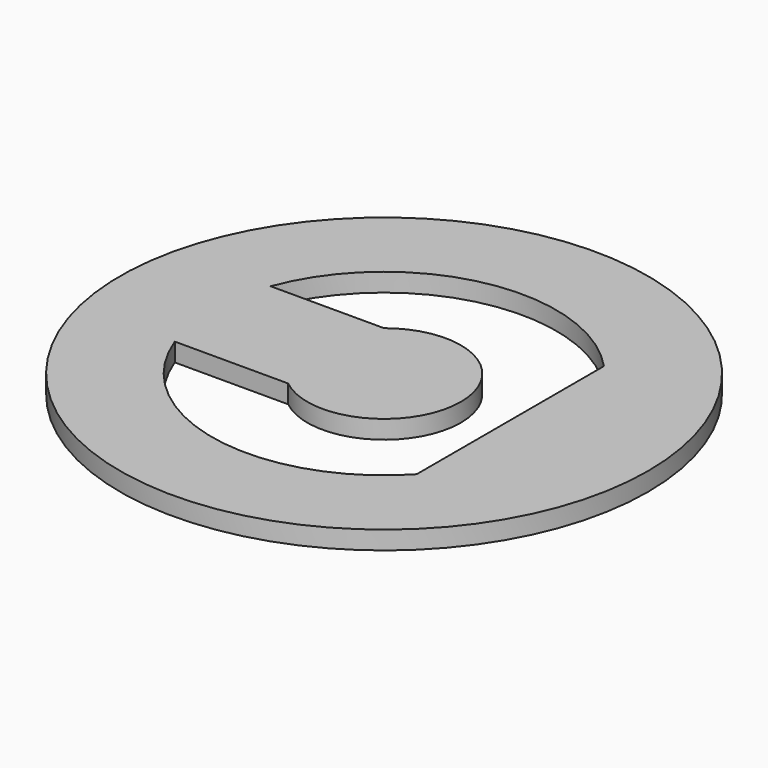
from build123d import *

# Parameters (mm, degrees)
F0_R     = 36.5125
F1_DEPTH = 2.54


with BuildPart() as f1:
    # F0 (on Top) → F1 (new body)
    with BuildSketch(Plane.XY):
        with Locations((2.223555, 0)):
            Circle(F0_R)
        with BuildLine():
            Line((19.686055, 16.189387), (19.686055, -16.189387))
            ThreePointArc((19.686055, -16.189387), (-2.415954, -23.356158), (-20.100791, -8.286056))
            Line((-20.100791, -8.286056), (-4.414684, -8.286056))
            ThreePointArc((-4.414684, -8.286056), (12.840755, 0), (-4.414684, 8.286056))
            Line((-4.414684, 8.286056), (-20.100791, 8.286056))
            ThreePointArc((-20.100791, 8.286056), (-2.415954, 23.356158), (19.686055, 16.189387))
        make_face(mode=Mode.SUBTRACT)
    extrude(amount=F1_DEPTH)


solid = f1.part
